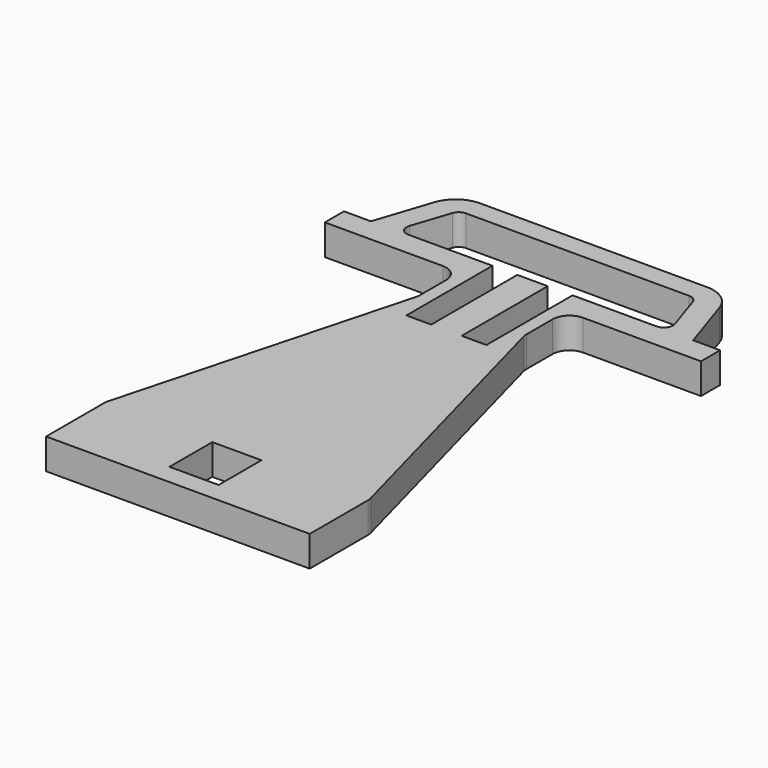
from build123d import *

# Parameters (mm, degrees)
F1_DEPTH = 6.35


with BuildPart() as f1:
    # F0 (on Top) → F1 (new body)
    with BuildSketch(Plane.XY):
        with BuildLine():
            ThreePointArc((-33.4219, 43.115239), (-32.867102, 41.775839), (-31.527702, 41.221041))
            Line((-31.527702, 41.221041), (-25.33034, 41.221041))
            Line((-25.33034, 41.221041), (-14.553085, 41.221041))
            ThreePointArc((-14.553085, 41.221041), (-12.062966, 40.1896), (-11.031525, 37.699481))
            Line((-11.031525, 37.699481), (-11.031525, 30.911574))
            ThreePointArc((-11.031525, 30.911574), (-11.061958, 30.449601), (-11.152732, 29.995613))
            Line((-11.152732, 29.995613), (-27.223983, -29.666242))
            ThreePointArc((-27.223983, -29.666242), (-27.314757, -30.12023), (-27.34519, -30.582203))
            Line((-27.34519, -30.582203), (-27.34519, -45.643087))
            Line((-27.34519, -45.643087), (0, -45.643087))
            Line((0, -45.643087), (27.34519, -45.643087))
            Line((27.34519, -45.643087), (27.34519, -30.582203))
            ThreePointArc((27.34519, -30.582203), (27.314757, -30.12023), (27.223983, -29.666242))
            Line((27.223983, -29.666242), (11.152732, 29.995613))
            ThreePointArc((11.152732, 29.995613), (11.061958, 30.449601), (11.031525, 30.911574))
            Line((11.031525, 30.911574), (11.031525, 37.699481))
            ThreePointArc((11.031525, 37.699481), (12.062966, 40.1896), (14.553085, 41.221041))
            Line((14.553085, 41.221041), (25.33034, 41.221041))
            Line((25.33034, 41.221041), (31.527702, 41.221041))
            ThreePointArc((31.527702, 41.221041), (32.867102, 41.775839), (33.4219, 43.115239))
            Line((33.4219, 43.115239), (33.4219, 46.182986))
            Line((33.4219, 46.182986), (29.585455, 57.798627))
            ThreePointArc((29.585455, 57.798627), (27.275806, 60.953424), (23.555821, 62.157143))
            Line((23.555821, 62.157143), (0, 62.157143))
            Line((0, 62.157143), (-23.555821, 62.157143))
            ThreePointArc((-23.555821, 62.157143), (-27.275806, 60.953424), (-29.585455, 57.798627))
            Line((-29.585455, 57.798627), (-33.4219, 46.182986))
            Line((-33.4219, 46.182986), (-33.4219, 43.115239))
        make_face()
        Polygon((-5.088463, -30.357072), (0, -30.357072), (5.088463, -30.357072), (5.088463, -41.450173), (0, -41.450173), (-5.088463, -41.450173), align=None, mode=Mode.SUBTRACT)
        with BuildLine():
            Line((-8.303855, 46.301041), (-25.737514, 46.301041))
            ThreePointArc((-25.737514, 46.301041), (-27.272644, 47.085572), (-27.536148, 48.789297))
            Line((-27.536148, 48.789297), (-24.933654, 56.66889))
            ThreePointArc((-24.933654, 56.66889), (-24.244688, 57.609963), (-23.135021, 57.969031))
            Line((-23.135021, 57.969031), (0, 57.969031))
            Line((0, 57.969031), (23.135021, 57.969031))
            ThreePointArc((23.135021, 57.969031), (24.244688, 57.609963), (24.933654, 56.66889))
            Line((24.933654, 56.66889), (27.531461, 48.803486))
            ThreePointArc((27.531461, 48.803486), (27.266455, 47.090046), (25.722571, 46.301041))
            Line((25.722571, 46.301041), (8.303855, 46.301041))
            Line((8.303855, 46.301041), (8.303855, 23.983043))
            Line((8.303855, 23.983043), (3.15923, 23.983043))
            Line((3.15923, 23.983043), (3.15923, 46.301041))
            Line((3.15923, 46.301041), (0, 46.301041))
            Line((0, 46.301041), (-3.15923, 46.301041))
            Line((-3.15923, 46.301041), (-3.15923, 23.983043))
            Line((-3.15923, 23.983043), (-8.303855, 23.983043))
            Line((-8.303855, 23.983043), (-8.303855, 46.301041))
        make_face(mode=Mode.SUBTRACT)
        with BuildLine():
            Line((-39.013032, 41.221041), (-31.527702, 41.221041))
            ThreePointArc((-31.527702, 41.221041), (-32.867102, 41.775839), (-33.4219, 43.115239))
            Line((-33.4219, 43.115239), (-33.4219, 46.182986))
            Line((-33.4219, 46.182986), (-39.013032, 46.182986))
            Line((-39.013032, 46.182986), (-39.013032, 41.221041))
        make_face()
        with BuildLine():
            Line((39.013032, 46.182986), (33.4219, 46.182986))
            Line((33.4219, 46.182986), (33.4219, 43.115239))
            ThreePointArc((33.4219, 43.115239), (32.867102, 41.775839), (31.527702, 41.221041))
            Line((31.527702, 41.221041), (39.013032, 41.221041))
            Line((39.013032, 41.221041), (39.013032, 46.182986))
        make_face()
    extrude(amount=F1_DEPTH)


solid = f1.part
